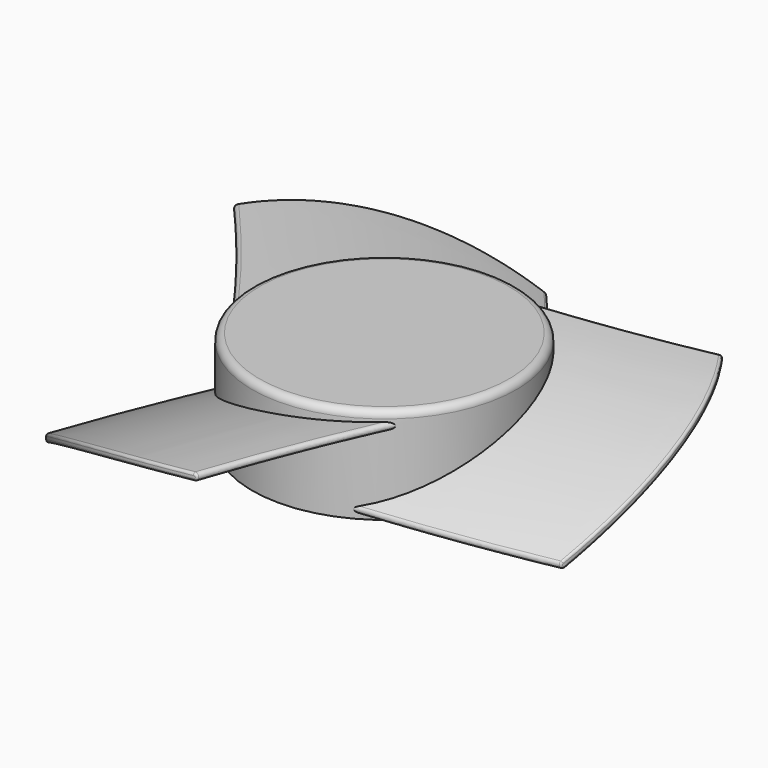
from build123d import *

# Parameters (mm, degrees)
SKETCH003_W           = 27.5
SKETCH003_H           = 20
POLARPATTERN001_COUNT = 3
SKETCH006_W           = 35
SKETCH006_H           = 20
FILLET_R              = 1.5
FILLET001_R           = 0.5


with BuildPart() as part:
    # Sketch003 → Revolution (revolve)
    with BuildSketch(Plane.YZ):
        with Locations((-13.75, 10)):
            Rectangle(SKETCH003_W, SKETCH003_H)
    revolve(axis=Axis((0, 0, 0), (0, 0, 1)))

    # AdditivePipe: sweep along a path in Sketch005
    with BuildLine(Plane(origin=(0, 24.746452, 17.951514), x_dir=(1, 0, 0), z_dir=(0, 0, 1))) as additivepipe_path:
        ThreePointArc((0, 0), (35.305164, 4.219879), (70, 12))
    # Sketch004 → AdditivePipe (sweep)
    with BuildSketch(Plane.YZ):
        with BuildLine():
            ThreePointArc((-24.853798, 2.390651), (-25.111122, 1.361678), (-24.082149, 1.104355))
            ThreePointArc((24.84786, 16.454945), (-0.528396, 11.684266), (-24.082149, 1.104355))
            ThreePointArc((24.84786, 16.454945), (25.54544, 17.253933), (24.746452, 17.951514))
            ThreePointArc((24.746452, 17.951514), (-0.977407, 13.115485), (-24.853798, 2.390651))
        make_face()
    additivepipe = sweep(path=additivepipe_path.line)

    # PolarPattern001: AdditivePipe ×3 about axis
    polarpattern001_axis = Axis((0, 0, 0), (0, 0, 1))
    for i in range(1, POLARPATTERN001_COUNT):
        add(additivepipe.rotate(polarpattern001_axis, i * 360 / POLARPATTERN001_COUNT))

    # Sketch006 → Groove001 (revolve, cut)
    with BuildSketch(Plane.XZ):
        with Locations((72.5, 10)):
            Rectangle(SKETCH006_W, SKETCH006_H)
    revolve(axis=Axis((0, 0, 0), (0, 0, 1)), mode=Mode.SUBTRACT)

    # Fillet
    fillet_edges = [part.edges().sort_by_distance(p)[0] for p in [
        (0, 27.5, 20),
    ]]
    fillet(fillet_edges, radius=FILLET_R)

    # Fillet001
    fillet001_edges = [part.edges().sort_by_distance(p)[0] for p in [
        (52.654627, 15.889943, 15.654011),
        (45.025094, 31.587037, 17.258073),
        (52.641401, 15.933704, 14.128315),
        (54.186833, -9.422692, 6.900709),
        (54.262271, -8.978083, 5.436546),
        (51.765636, -18.582759, 1.321689),
        (-9.789677, 54.121735, 1.321689),
        (-32.690043, 44.230771, 13.00407),
        (-33.093805, 43.92949, 11.589844),
        (-49.867724, 23.199357, 17.258073),
        (-41.975959, -35.538976, 1.321689),
        (-21.497152, -50.624821, 11.589844),
        (-21.959949, -50.425793, 13.00407),
        (4.84263, -54.786394, 17.258073),
    ]]
    fillet(fillet001_edges, radius=FILLET001_R)


solid = part.part
